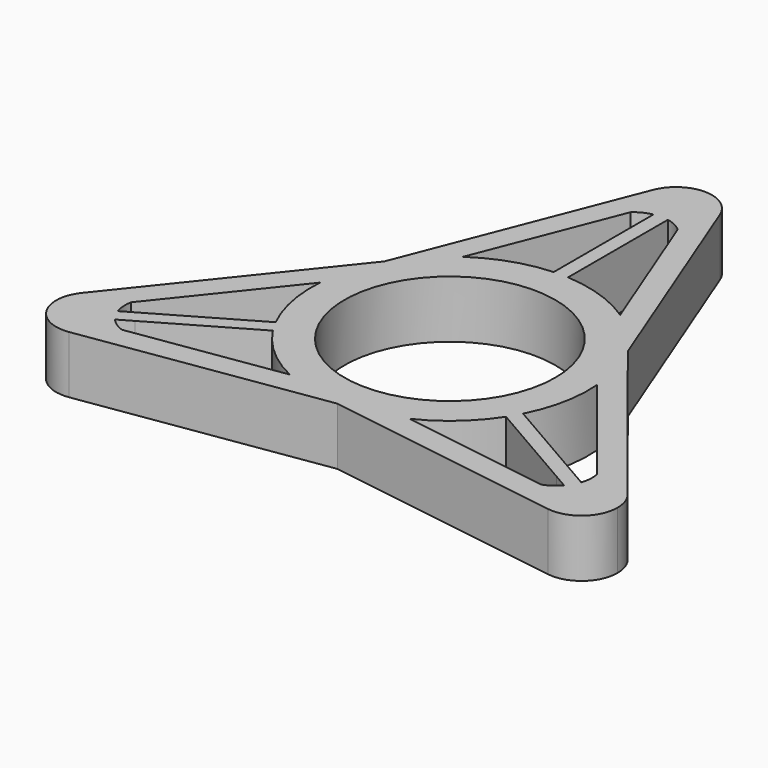
from build123d import *

# Parameters (mm, degrees)
F0_R     = 11
F1_DEPTH = 6


with BuildPart() as f1:
    # F0 (on Top) → F1 (new body)
    with BuildSketch(Plane.XY):
        with BuildLine():
            Line((-23.441037, -14.399715), (-21.990769, -13.562402))
            ThreePointArc((-21.990769, -13.562402), (-22.300154, -12.875), (-22.740769, -12.263364))
            Line((-22.740769, -12.263364), (-24.191037, -13.100677))
            ThreePointArc((-24.191037, -13.100677), (-24.375767, -12.162283), (-24.317114, -11.207679))
            ThreePointArc((-24.317114, -11.207679), (-26.5881, -11.1472), (-28.47727, -12.408973))
            ThreePointArc((-28.47727, -12.408973), (-28.795345, -16.625), (-24.98512, -18.457553))
            ThreePointArc((-24.98512, -18.457553), (-22.947808, -17.45237), (-21.864692, -15.455399))
            ThreePointArc((-21.864692, -15.455399), (-22.720729, -15.028892), (-23.441037, -14.399715))
        make_face()
        with BuildLine():
            Line((-21.990769, -13.562402), (-12.165559, -7.889814))
            ThreePointArc((-12.165559, -7.889814), (-9.565708, -10.89712), (-6.246866, -13.085361))
            Line((-6.246866, -13.085361), (-21.864692, -15.455399))
            ThreePointArc((-21.864692, -15.455399), (-22.947808, -17.45237), (-24.98512, -18.457553))
            Line((-24.98512, -18.457553), (0, -14.666008))
            Line((0, -14.666008), (24.98512, -18.457553))
            ThreePointArc((24.98512, -18.457553), (22.947808, -17.45237), (21.864692, -15.455399))
            Line((21.864692, -15.455399), (6.246866, -13.085361))
            ThreePointArc((6.246866, -13.085361), (9.565708, -10.89712), (12.165559, -7.889814))
            Line((12.165559, -7.889814), (21.990769, -13.562402))
            ThreePointArc((21.990769, -13.562402), (22.300154, -12.875), (22.740769, -12.263364))
            Line((22.740769, -12.263364), (12.915559, -6.590776))
            ThreePointArc((12.915559, -6.590776), (14.220037, -2.835586), (14.455688, 1.132736))
            Line((14.455688, 1.132736), (24.317114, -11.207679))
            ThreePointArc((24.317114, -11.207679), (26.5881, -11.1472), (28.47727, -12.408973))
            Line((28.47727, -12.408973), (12.701135, 7.333004))
            Line((12.701135, 7.333004), (3.49215, 30.866525))
            ThreePointArc((3.49215, 30.866525), (0, 33.25), (-3.49215, 30.866525))
            Line((-3.49215, 30.866525), (-12.701135, 7.333004))
            Line((-12.701135, 7.333004), (-28.47727, -12.408973))
            ThreePointArc((-28.47727, -12.408973), (-26.5881, -11.1472), (-24.317114, -11.207679))
            Line((-24.317114, -11.207679), (-14.455688, 1.132736))
            ThreePointArc((-14.455688, 1.132736), (-14.201564, -2.831903), (-12.915559, -6.590776))
            Line((-12.915559, -6.590776), (-22.740769, -12.263364))
            ThreePointArc((-22.740769, -12.263364), (-22.300154, -12.875), (-21.990769, -13.562402))
        make_face()
        Circle(F0_R, mode=Mode.SUBTRACT)
        with BuildLine():
            Line((-8.208822, 11.952625), (-2.452422, 26.663078))
            ThreePointArc((-2.452422, 26.663078), (-1.655038, 27.191175), (-0.75, 27.500391))
            Line((-0.75, 27.500391), (-0.75, 14.48059))
            ThreePointArc((-0.75, 14.48059), (-4.654329, 13.732706), (-8.208822, 11.952625))
        make_face(mode=Mode.SUBTRACT)
        with BuildLine():
            ThreePointArc((0.75, 27.500391), (1.655038, 27.191175), (2.452422, 26.663078))
            Line((2.452422, 26.663078), (8.208822, 11.952625))
            ThreePointArc((8.208822, 11.952625), (4.648282, 13.714866), (0.75, 14.48059))
            Line((0.75, 14.48059), (0.75, 27.500391))
        make_face(mode=Mode.SUBTRACT)
        with BuildLine():
            ThreePointArc((21.864692, -15.455399), (22.947808, -17.45237), (24.98512, -18.457553))
            ThreePointArc((24.98512, -18.457553), (27.992401, -17.593621), (29.297749, -14.75))
            ThreePointArc((29.297749, -14.75), (29.08669, -13.509678), (28.47727, -12.408973))
            ThreePointArc((28.47727, -12.408973), (26.5881, -11.1472), (24.317114, -11.207679))
            ThreePointArc((24.317114, -11.207679), (24.375767, -12.162283), (24.191037, -13.100677))
            Line((24.191037, -13.100677), (22.740769, -12.263364))
            ThreePointArc((22.740769, -12.263364), (22.300154, -12.875), (21.990769, -13.562402))
            Line((21.990769, -13.562402), (23.441037, -14.399715))
            ThreePointArc((23.441037, -14.399715), (22.720729, -15.028892), (21.864692, -15.455399))
        make_face()
    extrude(amount=F1_DEPTH)


solid = f1.part
